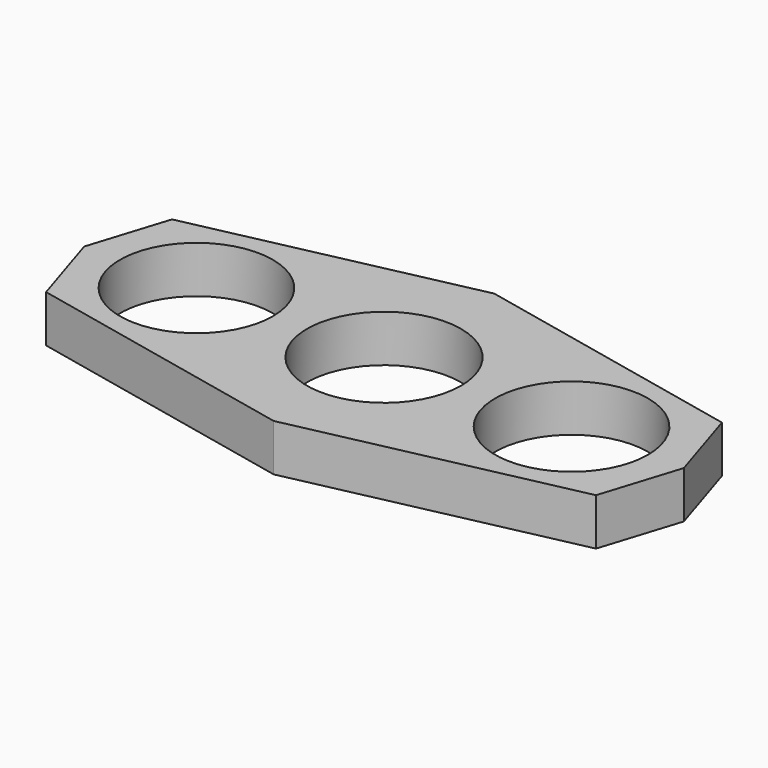
from build123d import *

# Parameters (mm, degrees)
F0_R     = 13
F0_R_2   = 13.1
F1_DEPTH = 8


with BuildPart() as f1:
    # F0 (on Top) → F1 (new body)
    with BuildSketch(Plane.XY):
        Polygon((-46.768434, 13.382968), (-51, 0), (-46.768434, -13.382968), (0, -23.456169), (46.768434, -13.382968), (51, 0), (46.768434, 13.382968), (0, 23.456169), align=None)
        with Locations((-31.9, 0)):
            Circle(F0_R, mode=Mode.SUBTRACT)
        Circle(F0_R_2, mode=Mode.SUBTRACT)
        with Locations((31.9, 0)):
            Circle(F0_R, mode=Mode.SUBTRACT)
    extrude(amount=F1_DEPTH)


solid = f1.part
